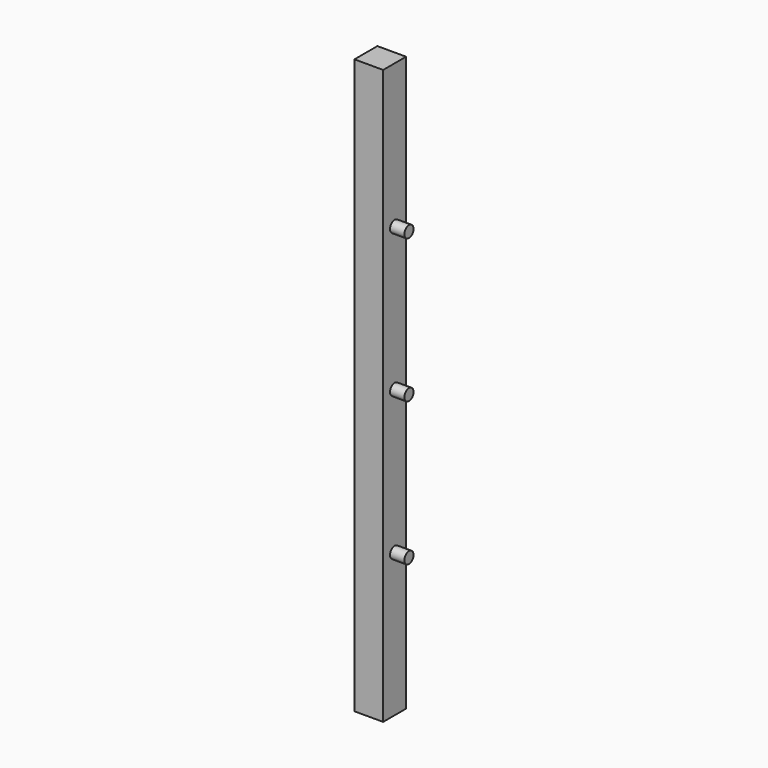
from build123d import *

# Parameters (mm, degrees)
F0_W     = 2.54
F0_H     = 50.8
F1_DEPTH = 2.54
F2_R     = 0.508
F3_DEPTH = 1.27
F4_DEPTH = 1.27


with BuildPart() as f1:
    # F0 (on Front) → F1 (new body)
    with BuildSketch(Plane.XZ):
        with Locations((-33.233647, 3.821034)):
            Rectangle(F0_W, F0_H)
    extrude(amount=F1_DEPTH)

    # F2 (on face) → F3 (join)
    with BuildSketch(Plane.YZ.offset(-31.963647)):
        with Locations((-1.27, 16.521034)):
            Circle(F2_R)
        with Locations((-1.27, 3.821034)):
            Circle(F2_R)
    extrude(amount=F3_DEPTH)

    # F2 (on face) → F4 (join)
    with BuildSketch(Plane.YZ.offset(-31.963647)):
        with Locations((-1.27, -8.878966)):
            Circle(F2_R)
    extrude(amount=F4_DEPTH)


solid = f1.part
